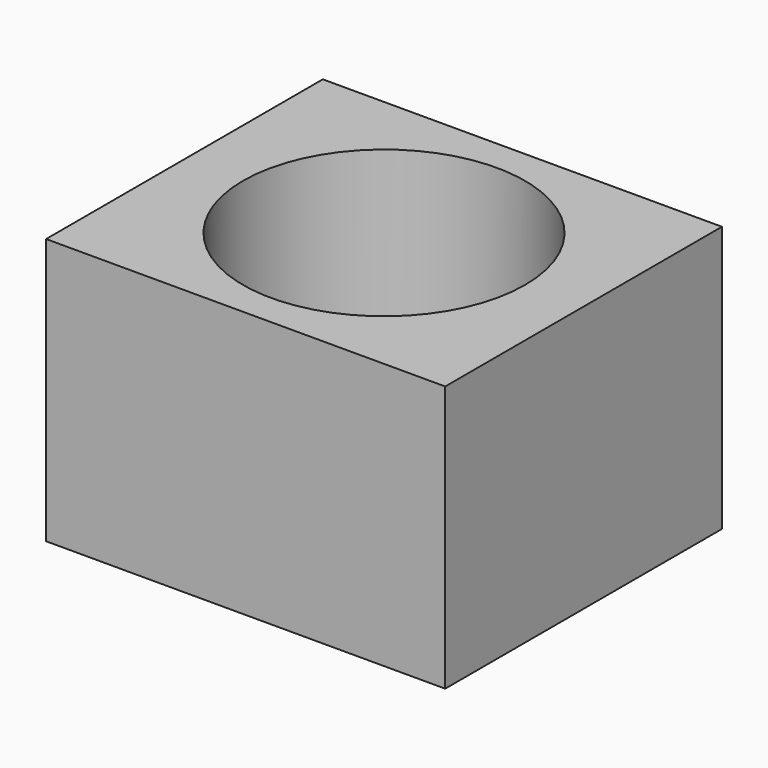
from build123d import *

# Parameters (mm, degrees)
F0_W     = 38.1
F0_H     = 33.02
F0_R     = 2.3495
F1_DEPTH = 2.54
F2_W     = 38.1
F2_H     = 33.02
F2_R     = 13.462
F3_DEPTH = 22.86
F4_W     = 1.778
F4_H     = 27.432
F5_DEPTH = 21.59


with BuildPart() as f1:
    # F0 (on Top) → F1 (new body)
    with BuildSketch(Plane.XY):
        Rectangle(F0_W, F0_H)
        Circle(F0_R, mode=Mode.SUBTRACT)
    extrude(amount=F1_DEPTH)

    # F2 (on face) → F3 (join)
    with BuildSketch(Plane.XY.offset(2.54)):
        Rectangle(F2_W, F2_H)
        Circle(F2_R, mode=Mode.SUBTRACT)
    extrude(amount=F3_DEPTH)

    # F4 (on face) → F5 (cut)
    with BuildSketch(Plane(origin=(0, 0, 0), x_dir=(1, 0, 0), z_dir=(0, 0, -1))):
        with Locations((14.605, 0)):
            Rectangle(F4_W, F4_H)
        with Locations((-14.605, 0)):
            Rectangle(F4_W, F4_H)
    extrude(amount=-F5_DEPTH, mode=Mode.SUBTRACT)


solid = f1.part
